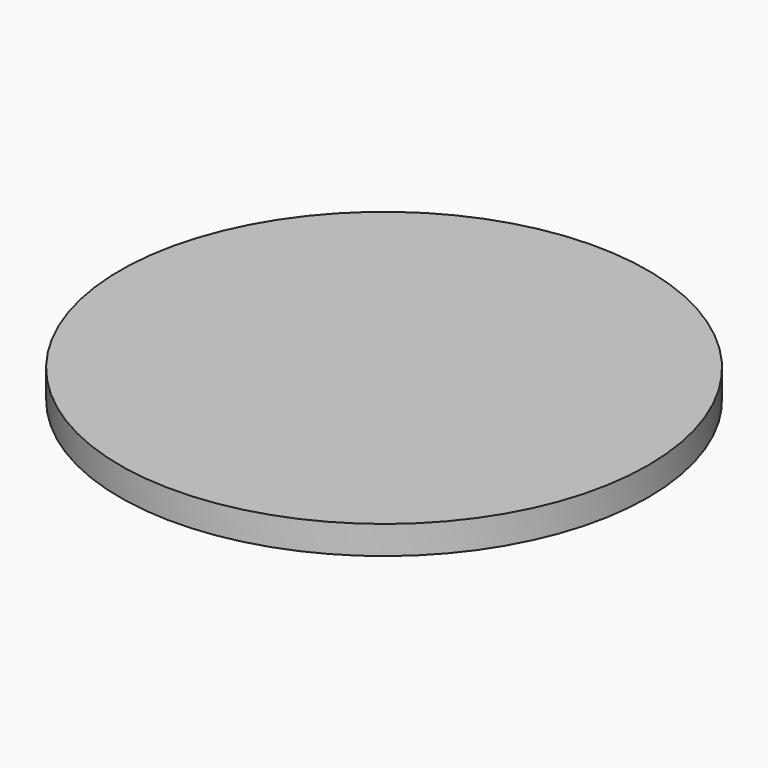
from build123d import *

# Parameters (mm, degrees)
F0_R     = 23.683902
F1_DEPTH = 25.4
F2_T     = -2.54


with BuildPart() as f1:
    # F0 (on Top) → F1 (new body)
    with BuildSketch(Plane.XY):
        with Locations((1.801173, 0)):
            Circle(F0_R)
    extrude(amount=F1_DEPTH)

    # F2
    f2_openings = [f1.faces().sort_by_distance(p)[0] for p in [
        (-21.882729, 0, 12.7),
        (1.801173, 0, 0),
    ]]
    offset(amount=F2_T, openings=f2_openings)


solid = f1.part
